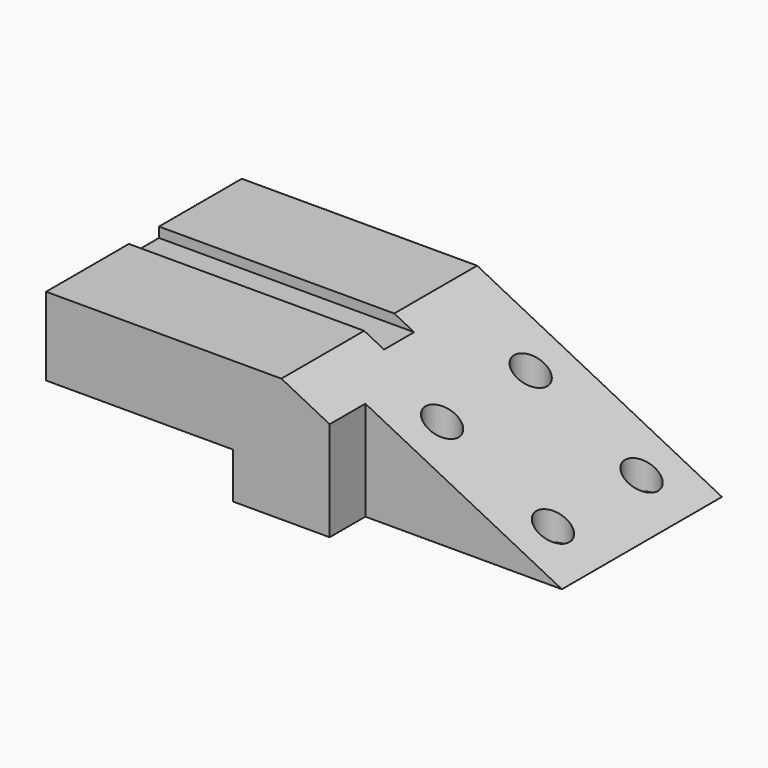
from build123d import *

# Parameters (mm, degrees)
F1_DEPTH = 27.4
F3_DEPTH = 10
F5_DEPTH = 88.2
F6_R     = 3.700156
F7_DEPTH = 27.768068


with BuildPart() as f1:
    # F0 (on Front) → F1 (new body, symmetric)
    with BuildSketch(Plane.XZ):
        Polygon((-10.816675, 0), (0, 0), (0, 27.767068), (-52.702516, 27.767068), (-52.702516, 10.254359), (-10.816675, 10.254359), align=None)
        Polygon((0, 27.767068), (0, 0), (10.816675, 0), (54.839961, 0), align=None)
    extrude(amount=F1_DEPTH, both=True)

    # F2 (on face) → F3 (cut)
    with BuildSketch(Plane.XZ.offset(27.4)):
        Polygon((10.816675, 22.290271), (10.816675, 0), (54.839961, 0), align=None)
    extrude(amount=-F3_DEPTH, mode=Mode.SUBTRACT)

    # F4 (on Right) → F5 (cut, symmetric)
    with BuildSketch(Plane.YZ):
        Polygon((-4.211452, 25.516083), (0, 25.516083), (4.211452, 25.516083), (4.211452, 28.770475), (-4.211452, 28.770475), align=None)
    extrude(amount=F5_DEPTH, both=True, mode=Mode.SUBTRACT)

    # F6 (on face) → F7 (cut, through all)
    with BuildSketch(Plane.XY.offset(27.767068)):
        with Locations((20, 17.4)):
            Circle(F6_R)
        with Locations((44.839961, 17.4)):
            Circle(F6_R)
        with Locations((44.839961, -7.4)):
            Circle(F6_R)
        with Locations((20, -7.4)):
            Circle(F6_R)
    extrude(amount=-F7_DEPTH, mode=Mode.SUBTRACT)


solid = f1.part
